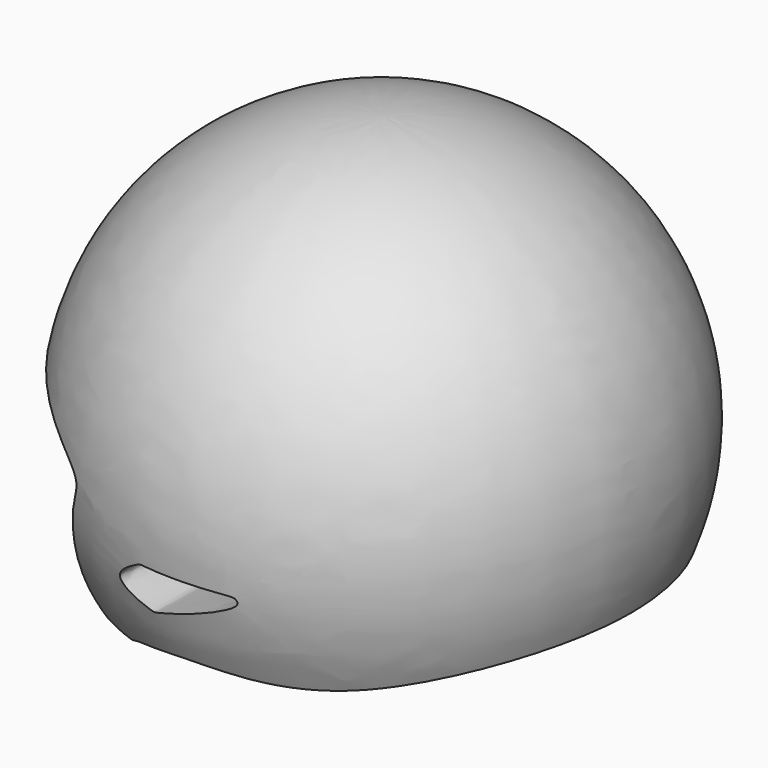
from build123d import *

# Parameters (mm, degrees)
F2_W          = 362.079239299
F2_H          = 101.6
F3_DEPTH      = 152.4
F3_DEPTH_BACK = 152.4
F5_DEPTH      = 152.4
F5_DEPTH_BACK = 152.4
F8_DEPTH      = 203.6730642605
F8_DEPTH_BACK = 25.4


with BuildPart() as f1:
    # F0 (on Front) → F1 (revolve)
    with BuildSketch(Plane.XZ):
        with BuildLine():
            Line((0, 203.2), (0, 0))
            ThreePointArc((0, 0), (102.0720641605, 101.6), (0, 203.2))
        make_face()
    revolve(axis=Axis((0, 0, 101.6), (0, 0, 1)))

    # F2 (on Front) → F3 (cut, two sides)
    with BuildSketch(Plane.XZ) as f3_sk:
        Rectangle(F2_W, F2_H)
    extrude(amount=-F3_DEPTH, mode=Mode.SUBTRACT)
    extrude(f3_sk.sketch, amount=F3_DEPTH_BACK, mode=Mode.SUBTRACT)

    # F4 (on Front) → F5 (cut, two sides)
    with BuildSketch(Plane.XZ) as f5_sk:
        with BuildLine():
            add(Edge.make_bspline(
                [(68.3026388288, 44.9041463435), (72.368946886, 44.24193453), (79.3142580752, 42.5378157008), (104.9954473983, 57.2076713354), (105.990012883, 72.5918727876), (46.1338631045, 50.0161090484), (2.7746641852, 59.0662853363), (-18.1364750597, 54.0393218319), (-23.8103382289, 52.8988577425)],
                knots=[0, 0, 0, 0, 0.1108975263, 0.2836944588, 0.3667267826, 0.6081251544, 0.8393799623, 1, 1, 1, 1], degree=3))
            add(Edge.make_bspline(
                [(-23.8103382289, 52.8988577425), (-27.1018720087, 51.4519997262), (-33.4982513627, 48.6403461438), (-44.8544787976, 49.3581948708), (-51.1074165497, 63.5612350345), (-46.3882340614, 94.74060467), (-38.0903615057, 108.6250014719), (-76.4964118533, 119.0762424783), (-104.1050478816, 126.5892386436)],
                knots=[0, 0, 0, 0, 0.1217558726, 0.236606033, 0.3745858298, 0.5850548372, 0.7017118431, 1, 1, 1, 1], degree=3))
            Line((-104.1050478816, 126.5892386436), (-110.7093691826, 44.9041463435))
            Line((-110.7093691826, 44.9041463435), (68.3026388288, 44.9041463435))
        make_face()
    extrude(amount=-F5_DEPTH, mode=Mode.SUBTRACT)
    extrude(f5_sk.sketch, amount=F5_DEPTH_BACK, mode=Mode.SUBTRACT)

    # F7 (on offset) → F8 (cut, two sides)
    with BuildSketch(Plane.XZ.offset(101.6)) as f8_sk:
        with BuildLine():
            add(Edge.make_bspline(
                [(-10.8702480793, 72.2723603249), (-13.9304258585, 73.1098887553), (-30.6494761521, 78.6913794925), (-12.4560940306, 88.5944459953), (-12.1310655043, 88.4753943594), (20.4419109475, 88.2117349923), (22.7126706951, 87.6022117622), (25.1965592684, 82.9653096336), (-8.7468257157, 72.2223016329), (-9.3185151159, 71.8476724253), (-10.8702480793, 72.2723603249)],
                knots=[0, 0, 0, 0, 0.1482788698, 0.2902209969, 0.3506525822, 0.5731639008, 0.638297437, 0.6977593435, 0.924811816, 1, 1, 1, 1], degree=3))
        make_face()
    extrude(amount=-F8_DEPTH, mode=Mode.SUBTRACT)
    extrude(f8_sk.sketch, amount=F8_DEPTH_BACK, mode=Mode.SUBTRACT)


solid = f1.part
